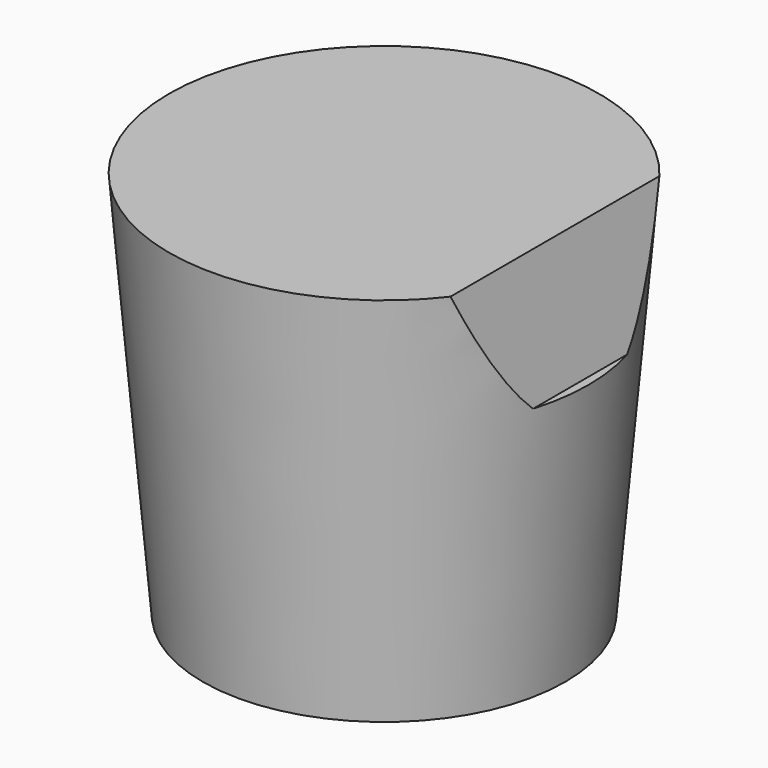
from build123d import *

# Parameters (mm, degrees)
F2_R     = 41.5
F0_R     = 35
F6_DEPTH = 27.5
F7_R     = 33.5
F8_DEPTH = 53


with BuildPart() as f3:
    # F2 (on offset) → F3 section 0
    with BuildSketch(Plane.XY.offset(75)):
        Circle(F2_R)
    # F0 (on Top) → F3 section 1
    with BuildSketch(Plane.XY):
        Circle(F0_R)
    loft()

    # F5 (on Front) → F6 (cut, symmetric)
    with BuildSketch(Plane.XZ):
        Polygon((32.979961, 75), (37.831545, 51.901187), (40.54823, 51.901187), (42.30484, 75), align=None)
    extrude(amount=F6_DEPTH, both=True, mode=Mode.SUBTRACT)

    # F7 (on Top) → F8 (cut)
    with BuildSketch(Plane.XY):
        Circle(F7_R)
    extrude(amount=F8_DEPTH, mode=Mode.SUBTRACT)


solid = f3.part
